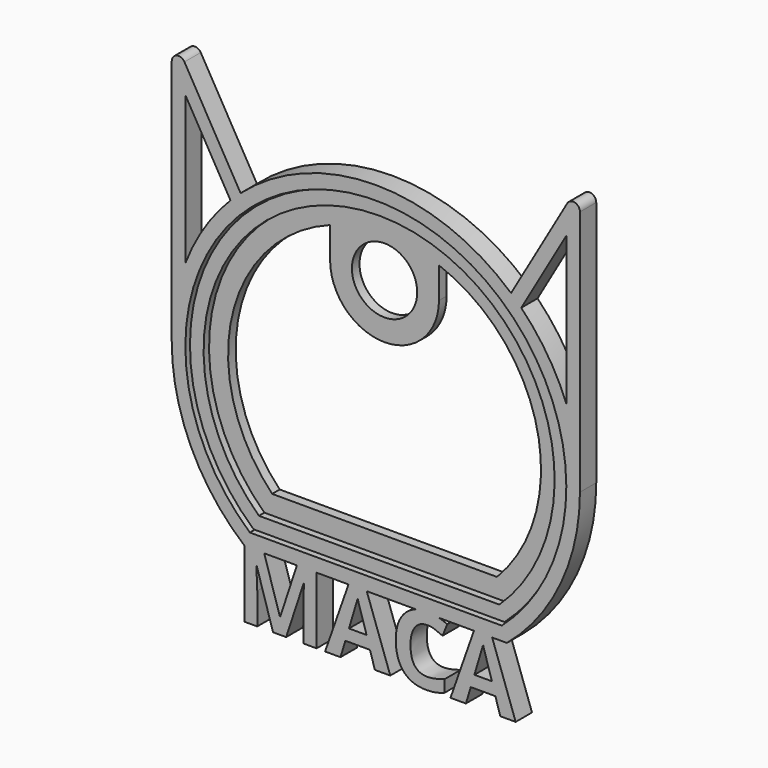
from build123d import *

# Parameters (mm, degrees)
F1_DEPTH = 3
F0_R     = 4.8
F2_DEPTH = 1.4
F4_DEPTH = 1


with BuildPart() as f1:
    # F0 (on Front) → F1 (new body)
    with BuildSketch(Plane.XZ):
        with BuildLine():
            Line((17.0973602635, -23), (19.2613602843, -23))
            ThreePointArc((19.2613602843, -23), (27.1830904105, -12.6917136643), (30, 0))
            ThreePointArc((30, 0), (29.4957624075, 5.4772255751), (28, 10.7703296143))
            ThreePointArc((28, 10.7703296143), (25.2153559369, 16.2537941718), (21.3710330072, 21.0541907516))
            ThreePointArc((21.3710330072, 21.0541907516), (20.6368373831, 21.7743184239), (19.8783905611, 22.4688581975))
            ThreePointArc((19.8783905611, 22.4688581975), (0, 30), (-19.8783905611, 22.4688581975))
            ThreePointArc((-19.8783905611, 22.4688581975), (-20.6368373831, 21.7743184239), (-21.3710330072, 21.0541907516))
            ThreePointArc((-21.3710330072, 21.0541907516), (-25.2153559369, 16.2537941718), (-28, 10.7703296143))
            ThreePointArc((-28, 10.7703296143), (-29.4957624075, 5.4772255751), (-30, 0))
            ThreePointArc((-30, 0), (-27.1958799346, -12.6642850009), (-19.3077256944, -22.9610916227))
            Line((-19.3077256944, -22.9610916227), (-19.3077256944, -22.8846354167))
            Line((-19.3077256944, -22.8846354167), (-16.4453125, -22.8846354167))
            Line((-16.4453125, -22.8846354167), (-16.4096201375, -23))
            Line((-16.4096201375, -23), (-11.6068819613, -23))
            Line((-11.6068819613, -23), (-11.5690104167, -22.8846354167))
            Line((-11.5690104167, -22.8846354167), (-8.7087673611, -22.8846354167))
            Line((-8.7087673611, -22.8846354167), (-8.7087673611, -23))
            Line((-8.7087673611, -23), (-4.0155582498, -23))
            Line((-4.0155582498, -23), (-3.9605034722, -22.8434027778))
            Line((-3.9605034722, -22.8434027778), (-1.3910590278, -22.8434027778))
            Line((-1.3910590278, -22.8434027778), (-1.3357994587, -23))
            Line((-1.3357994587, -23), (5.909137391, -23))
            add(Edge.make_bspline(
                [(5.909137391, -23), (6.670805287, -22.7435763889), (7.5824652778, -22.7435763889)],
                knots=[0.3566723985, 0.3566723985, 0.3566723985, 1, 1, 1], degree=2))
            add(Edge.make_bspline(
                [(7.5824652778, -22.7435763889), (8.4580373485, -22.7435763889), (9.3392012113, -23)],
                knots=[0, 0, 0, 0.6067121958, 0.6067121958, 0.6067121958], degree=2))
            Line((9.3392012113, -23), (14.4176014724, -23))
            Line((14.4176014724, -23), (14.47265625, -22.8434027778))
            Line((14.47265625, -22.8434027778), (17.0421006944, -22.8434027778))
            Line((17.0421006944, -22.8434027778), (17.0973602635, -23))
        make_face()
        with BuildLine():
            ThreePointArc((-18.5202591775, -21), (0, 28), (18.5202591775, -21))
            Line((18.5202591775, -21), (-18.5202591775, -21))
        make_face(mode=Mode.SUBTRACT)
        with BuildLine():
            ThreePointArc((28, 10.7703296143), (29.4957624075, 5.4772255751), (30, 0))
            Line((30, 0), (30, 36.2679491924))
            ThreePointArc((30, 36.2679491924), (29.2588190451, 37.2338750187), (28.1339745962, 36.7679491924))
            Line((28.1339745962, 36.7679491924), (19.8783905611, 22.4688581975))
            ThreePointArc((19.8783905611, 22.4688581975), (20.6368373831, 21.7743184239), (21.3710330072, 21.0541907516))
            Line((21.3710330072, 21.0541907516), (28, 32.5358983849))
            Line((28, 32.5358983849), (28, 10.7703296143))
        make_face()
        Polygon((20.5555555556, -32.8), (17.0973602635, -23), (14.4176014724, -23), (10.9722222222, -32.8), (13.2378472222, -32.8), (13.9561631944, -30.4388888889), (17.5716145833, -30.4388888889), (18.2899305556, -32.8), align=None)
        with BuildLine():
            add(Edge.make_bspline(
                [(17.0681423611, -28.6767361111), (16.0720486111, -25.4692708333), (15.9461805556, -25.0482638889)],
                knots=[0, 0, 0, 1, 1, 1], degree=2))
            Line((17.0681423611, -28.6767361111), (14.4856770833, -28.6767361111))
            add(Edge.make_bspline(
                [(15.7660590278, -24.3842013889), (15.5425347222, -25.2522569444), (14.4856770833, -28.6767361111)],
                knots=[0, 0, 0, 1, 1, 1], degree=2))
            add(Edge.make_bspline(
                [(15.9461805556, -25.0482638889), (15.8203125, -24.6272569444), (15.7660590278, -24.3842013889)],
                knots=[0, 0, 0, 1, 1, 1], degree=2))
        make_face(mode=Mode.SUBTRACT)
        Polygon((14.4176014724, -23), (17.0973602635, -23), (17.0421006944, -22.8434027778), (14.47265625, -22.8434027778), align=None)
        with BuildLine():
            add(Edge.make_bspline(
                [(9.3392012113, -23), (9.9103962577, -23.1662209523), (10.4839409722, -23.4401909722)],
                knots=[0.6067121958, 0.6067121958, 0.6067121958, 1, 1, 1], degree=2))
            Line((9.3392012113, -23), (5.909137391, -23))
            add(Edge.make_bspline(
                [(5.1106770833, -23.3631510417), (5.4868550037, -23.1421658642), (5.909137391, -23)],
                knots=[0, 0, 0, 0.3566723985, 0.3566723985, 0.3566723985], degree=2))
            add(Edge.make_bspline(
                [(3.4928385417, -25.1459201389), (4.0559895833, -23.9827256944), (5.1106770833, -23.3631510417)],
                knots=[0, 0, 0, 1, 1, 1], degree=2))
            add(Edge.make_bspline(
                [(2.9296875, -27.8564236111), (2.9296875, -26.3091145833), (3.4928385417, -25.1459201389)],
                knots=[0, 0, 0, 1, 1, 1], degree=2))
            add(Edge.make_bspline(
                [(4.0755208333, -31.6237847222), (2.9296875, -30.3108506944), (2.9296875, -27.8564236111)],
                knots=[0, 0, 0, 1, 1, 1], degree=2))
            add(Edge.make_bspline(
                [(7.3849826389, -32.93671875), (5.2213541667, -32.93671875), (4.0755208333, -31.6237847222)],
                knots=[0, 0, 0, 1, 1, 1], degree=2))
            add(Edge.make_bspline(
                [(10.1106770833, -32.4267361111), (8.8910590278, -32.93671875), (7.3849826389, -32.93671875)],
                knots=[0, 0, 0, 1, 1, 1], degree=2))
            Line((10.1106770833, -32.4267361111), (10.1106770833, -30.6645833333))
            add(Edge.make_bspline(
                [(7.5824652778, -31.1854166667), (8.6263020833, -31.1854166667), (10.1106770833, -30.6645833333)],
                knots=[0, 0, 0, 1, 1, 1], degree=2))
            add(Edge.make_bspline(
                [(5.0933159722, -27.8694444444), (5.0933159722, -31.1854166667), (7.5824652778, -31.1854166667)],
                knots=[0, 0, 0, 1, 1, 1], degree=2))
            add(Edge.make_bspline(
                [(5.7443576389, -25.3846354167), (5.0933159722, -26.2765625), (5.0933159722, -27.8694444444)],
                knots=[0, 0, 0, 1, 1, 1], degree=2))
            add(Edge.make_bspline(
                [(7.5824652778, -24.4927083333), (6.3953993056, -24.4927083333), (5.7443576389, -25.3846354167)],
                knots=[0, 0, 0, 1, 1, 1], degree=2))
            add(Edge.make_bspline(
                [(8.6870659722, -24.6891059028), (8.125, -24.4927083333), (7.5824652778, -24.4927083333)],
                knots=[0, 0, 0, 1, 1, 1], degree=2))
            add(Edge.make_bspline(
                [(9.8068576389, -25.1502604167), (9.2491319444, -24.8855034722), (8.6870659722, -24.6891059028)],
                knots=[0, 0, 0, 1, 1, 1], degree=2))
            Line((9.8068576389, -25.1502604167), (10.4839409722, -23.4401909722))
        make_face()
        with BuildLine():
            Line((5.909137391, -23), (9.3392012113, -23))
            add(Edge.make_bspline(
                [(7.5824652778, -22.7435763889), (8.4580373485, -22.7435763889), (9.3392012113, -23)],
                knots=[0, 0, 0, 0.6067121958, 0.6067121958, 0.6067121958], degree=2))
            add(Edge.make_bspline(
                [(5.909137391, -23), (6.670805287, -22.7435763889), (7.5824652778, -22.7435763889)],
                knots=[0.3566723985, 0.3566723985, 0.3566723985, 1, 1, 1], degree=2))
        make_face()
        with BuildLine():
            ThreePointArc((-21.3710330072, 21.0541907516), (-20.6368373831, 21.7743184239), (-19.8783905611, 22.4688581975))
            Line((-19.8783905611, 22.4688581975), (-28.1339745962, 36.7679491924))
            ThreePointArc((-28.1339745962, 36.7679491924), (-29.2588190451, 37.2338750187), (-30, 36.2679491924))
            Line((-30, 36.2679491924), (-30, 0))
            ThreePointArc((-30, 0), (-29.4957624075, 5.4772255751), (-28, 10.7703296143))
            Line((-28, 10.7703296143), (-28, 32.5358983849))
            Line((-28, 32.5358983849), (-21.3710330072, 21.0541907516))
        make_face()
        Polygon((2.1223958333, -32.8), (-1.3357994587, -23), (-4.0155582498, -23), (-7.4609375, -32.8), (-5.1953125, -32.8), (-4.4769965278, -30.4388888889), (-0.8615451389, -30.4388888889), (-0.1432291667, -32.8), align=None)
        with BuildLine():
            add(Edge.make_bspline(
                [(-1.3650173611, -28.6767361111), (-2.3611111111, -25.4692708333), (-2.4869791667, -25.0482638889)],
                knots=[0, 0, 0, 1, 1, 1], degree=2))
            Line((-1.3650173611, -28.6767361111), (-3.9474826389, -28.6767361111))
            add(Edge.make_bspline(
                [(-2.6671006944, -24.3842013889), (-2.890625, -25.2522569444), (-3.9474826389, -28.6767361111)],
                knots=[0, 0, 0, 1, 1, 1], degree=2))
            add(Edge.make_bspline(
                [(-2.4869791667, -25.0482638889), (-2.6128472222, -24.6272569444), (-2.6671006944, -24.3842013889)],
                knots=[0, 0, 0, 1, 1, 1], degree=2))
        make_face(mode=Mode.SUBTRACT)
        Polygon((-4.0155582498, -23), (-1.3357994587, -23), (-1.3910590278, -22.8434027778), (-3.9605034722, -22.8434027778), align=None)
        with BuildLine():
            Line((-8.7087673611, -32.8), (-8.7087673611, -23))
            Line((-8.7087673611, -23), (-11.6068819613, -23))
            Line((-11.6068819613, -23), (-14.0581597222, -30.4671006944))
            Line((-14.0581597222, -30.4671006944), (-14.0993923611, -30.4671006944))
            Line((-14.0993923611, -30.4671006944), (-16.4096201375, -23))
            Line((-16.4096201375, -23), (-19.2613602843, -23))
            ThreePointArc((-19.2613602843, -23), (-19.284552802, -22.9805575047), (-19.3077256944, -22.9610916227))
            Line((-19.3077256944, -22.9610916227), (-19.3077256944, -32.8))
            Line((-19.3077256944, -32.8), (-17.4283854167, -32.8))
            Line((-17.4283854167, -32.8), (-17.4283854167, -28.1884548611))
            add(Edge.make_bspline(
                [(-17.55859375, -25.0222222222), (-17.4283854167, -27.3941840278), (-17.4283854167, -28.1884548611)],
                knots=[0, 0, 0, 1, 1, 1], degree=2))
            Line((-17.55859375, -25.0222222222), (-17.4978298611, -25.0222222222))
            Line((-17.4978298611, -25.0222222222), (-15.1106770833, -32.8))
            Line((-15.1106770833, -32.8), (-13.18359375, -32.8))
            Line((-13.18359375, -32.8), (-10.6271701389, -25.0352430556))
            Line((-10.6271701389, -25.0352430556), (-10.56640625, -25.0352430556))
            add(Edge.make_bspline(
                [(-10.6575520833, -27.3399305556), (-10.6467013889, -26.9059027778), (-10.56640625, -25.0352430556)],
                knots=[0, 0, 0, 1, 1, 1], degree=2))
            add(Edge.make_bspline(
                [(-10.6684027778, -28.1059895833), (-10.6684027778, -27.7739583333), (-10.6575520833, -27.3399305556)],
                knots=[0, 0, 0, 1, 1, 1], degree=2))
            Line((-10.6684027778, -28.1059895833), (-10.6684027778, -32.8))
            Line((-10.6684027778, -32.8), (-8.7087673611, -32.8))
        make_face()
        Polygon((-11.6068819613, -23), (-8.7087673611, -23), (-8.7087673611, -22.8846354167), (-11.5690104167, -22.8846354167), align=None)
        with BuildLine():
            Line((-19.3077256944, -22.8846354167), (-19.3077256944, -22.9610916227))
            ThreePointArc((-19.3077256944, -22.9610916227), (-19.284552802, -22.9805575047), (-19.2613602843, -23))
            Line((-19.2613602843, -23), (-16.4096201375, -23))
            Line((-16.4096201375, -23), (-16.4453125, -22.8846354167))
            Line((-16.4453125, -22.8846354167), (-19.3077256944, -22.8846354167))
        make_face()
    extrude(amount=F1_DEPTH)

    # F0 (on Front) → F2 (join)
    with BuildSketch(Plane.XZ):
        with BuildLine():
            Line((-18.5202591775, -21), (18.5202591775, -21))
            ThreePointArc((18.5202591775, -21), (0, 28), (-18.5202591775, -21))
        make_face()
        with BuildLine():
            ThreePointArc((8, 21.5638586528), (22.4299290188, 5.0890356856), (16.5227116419, -16))
            Line((16.5227116419, -16), (-16.5227116419, -16))
            ThreePointArc((-16.5227116419, -16), (-22.4299290188, 5.0890356856), (-8, 21.5638586528))
            Line((-8, 21.5638586528), (-8, 17))
            ThreePointArc((-8, 17), (0, 9), (8, 17))
            Line((8, 17), (8, 21.5638586528))
        make_face(mode=Mode.SUBTRACT)
        with Locations((0, 17)):
            Circle(F0_R, mode=Mode.SUBTRACT)
        with BuildLine():
            Line((-18.5202591775, -21), (18.5202591775, -21))
            ThreePointArc((18.5202591775, -21), (0, 28), (-18.5202591775, -21))
        make_face()
        with BuildLine():
            ThreePointArc((8, 21.5638586528), (22.4299290188, 5.0890356856), (16.5227116419, -16))
            Line((16.5227116419, -16), (-16.5227116419, -16))
            ThreePointArc((-16.5227116419, -16), (-22.4299290188, 5.0890356856), (-8, 21.5638586528))
            Line((-8, 21.5638586528), (-8, 17))
            ThreePointArc((-8, 17), (0, 9), (8, 17))
            Line((8, 17), (8, 21.5638586528))
        make_face(mode=Mode.SUBTRACT)
        with Locations((0, 17)):
            Circle(F0_R, mode=Mode.SUBTRACT)
    extrude(amount=F2_DEPTH)


with BuildPart() as f4:
    # F3 (on face) → F4 (new body)
    with BuildSketch(Plane.XZ.offset(1.4)):
        with BuildLine():
            ThreePointArc((18.4445113787, -20.8), (0, 27.8), (-18.4445113787, -20.8))
            Line((-18.4445113787, -20.8), (18.4445113787, -20.8))
        make_face()
        with BuildLine():
            Line((17.6691822108, -18.8), (-17.6691822108, -18.8))
            ThreePointArc((-17.6691822108, -18.8), (0, 25.8), (17.6691822108, -18.8))
        make_face(mode=Mode.SUBTRACT)
    extrude(amount=F4_DEPTH)


solid = Compound([f1.part, f4.part])
